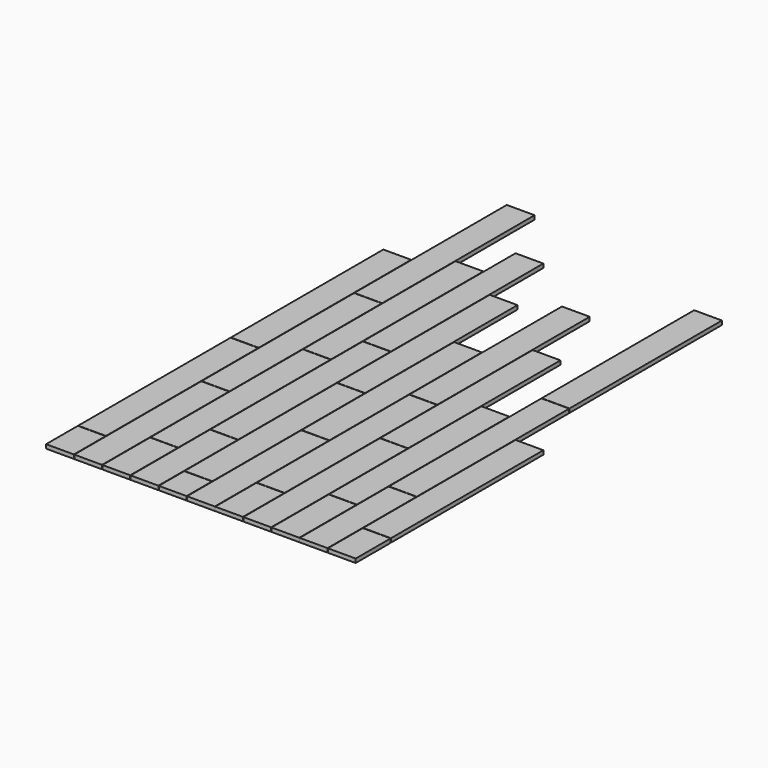
from build123d import *

# Parameters (mm, degrees)
F0_W     = 177.8
F0_H     = 254
F0_H_2   = 1016
F0_H_3   = 381
F0_H_4   = 635
F0_H_5   = 203.2
F0_H_6   = 1219.2
F0_H_7   = 914.4
F0_H_8   = 330.2
F0_H_9   = 1092.2
F0_H_10  = 457.2
F0_H_11  = 711.2
F0_H_12  = 279.4
F1_DEPTH = 25.4


with BuildPart() as f1:
    # F0 (on Top) → F1 (new body)
    with BuildSketch(Plane.XY):
        with Locations((88.9, 127)):
            Rectangle(F0_W, F0_H)
        with Locations((269.24, 508)):
            Rectangle(F0_W, F0_H_2)
        with Locations((449.58, 190.5)):
            Rectangle(F0_W, F0_H_3)
        with Locations((629.92, 317.5)):
            Rectangle(F0_W, F0_H_4)
        with Locations((810.26, 101.6)):
            Rectangle(F0_W, F0_H_5)
        with Locations((88.9, 866.14)):
            Rectangle(F0_W, F0_H_6)
        with Locations((269.24, 1628.14)):
            Rectangle(F0_W, F0_H_6)
        with Locations((449.58, 993.14)):
            Rectangle(F0_W, F0_H_6)
        with Locations((629.92, 1247.14)):
            Rectangle(F0_W, F0_H_6)
        with Locations((810.26, 815.34)):
            Rectangle(F0_W, F0_H_6)
        with Locations((88.9, 2087.88)):
            Rectangle(F0_W, F0_H_6)
        with Locations((269.24, 2849.88)):
            Rectangle(F0_W, F0_H_6)
        with Locations((449.58, 2214.88)):
            Rectangle(F0_W, F0_H_6)
        with Locations((629.92, 2468.88)):
            Rectangle(F0_W, F0_H_6)
        with Locations((810.26, 2037.08)):
            Rectangle(F0_W, F0_H_6)
        with Locations((990.6, 457.2)):
            Rectangle(F0_W, F0_H_7)
        with Locations((990.6, 1526.54)):
            Rectangle(F0_W, F0_H_6)
        with Locations((1170.94, 165.1)):
            Rectangle(F0_W, F0_H_8)
        with Locations((1351.28, 546.1)):
            Rectangle(F0_W, F0_H_9)
        with Locations((1170.94, 942.34)):
            Rectangle(F0_W, F0_H_6)
        with Locations((1531.62, 228.6)):
            Rectangle(F0_W, F0_H_10)
        with Locations((1711.96, 355.6)):
            Rectangle(F0_W, F0_H_11)
        with Locations((1531.62, 1069.34)):
            Rectangle(F0_W, F0_H_6)
        with Locations((1711.96, 1323.34)):
            Rectangle(F0_W, F0_H_6)
        with Locations((1170.94, 2164.08)):
            Rectangle(F0_W, F0_H_6)
        with Locations((1351.28, 1704.34)):
            Rectangle(F0_W, F0_H_6)
        with Locations((1711.96, 2545.08)):
            Rectangle(F0_W, F0_H_6)
        with Locations((1892.3, 139.7)):
            Rectangle(F0_W, F0_H_12)
        with Locations((1892.3, 891.54)):
            Rectangle(F0_W, F0_H_6)
    extrude(amount=F1_DEPTH)


solid = f1.part
